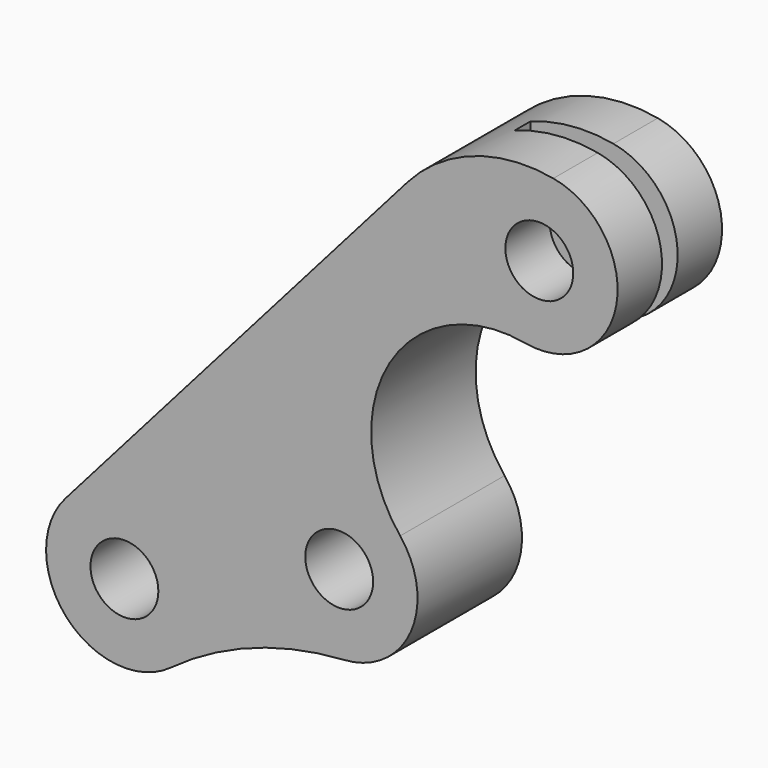
from build123d import *

# Parameters (mm, degrees)
F0_R          = 2.6
F1_DEPTH      = 5
F1_DEPTH_BACK = 5
F2_W          = 14.617969
F2_H          = 1.5
F3_DEPTH      = 50


with BuildPart() as f1:
    # F0 (on Front) → F1 (new body, two sides)
    with BuildSketch(Plane.XZ) as f1_sk:
        with BuildLine():
            Line((21.681353, 33.792565), (-4.509053, 3.958338))
            ThreePointArc((-4.509053, 3.958338), (-4.419267, -4.058335), (3.560765, -4.829177))
            ThreePointArc((3.560765, -4.829177), (9.846781, -1.458434), (16.828821, 0))
            ThreePointArc((16.828821, 0), (21.944509, 3.572269), (21.120871, 9.757169))
            ThreePointArc((21.120871, 9.757169), (20.305022, 21.147399), (30.69946, 25.875889))
            ThreePointArc((30.69946, 25.875889), (37.680374, 30.69946), (32.856804, 37.680374))
            ThreePointArc((32.856804, 37.680374), (26.756582, 37.209632), (21.681353, 33.792565))
        make_face()
        Circle(F0_R, mode=Mode.SUBTRACT)
        with Locations((16.452389, 5.98818)):
            Circle(F0_R, mode=Mode.SUBTRACT)
        with Locations((31.778132, 31.778132)):
            Circle(F0_R, mode=Mode.SUBTRACT)
    extrude(amount=F1_DEPTH)
    extrude(f1_sk.sketch, amount=-F1_DEPTH_BACK)

    # F2 (on Top) → F3 (cut)
    with BuildSketch(Plane.XY):
        with Locations((33.79795, 0)):
            Rectangle(F2_W, F2_H)
    extrude(amount=F3_DEPTH, mode=Mode.SUBTRACT)


solid = f1.part
